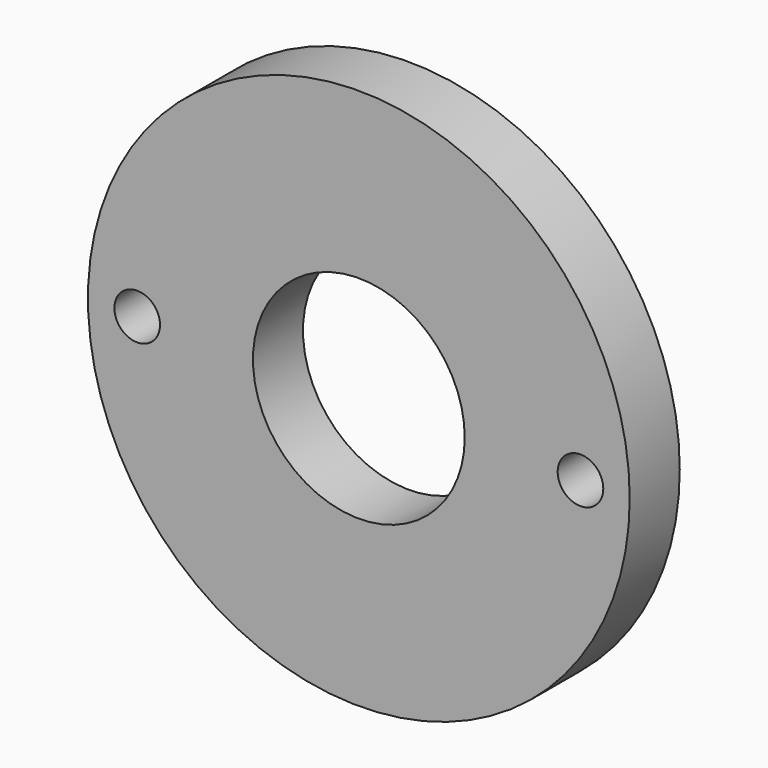
from build123d import *

# Parameters (mm, degrees)
F0_R     = 21.5
F0_R_2   = 4.6288
F1_DEPTH = 12.7


with BuildPart() as f1:
    # F0 (on Front) → F1 (new body)
    with BuildSketch(Plane.XZ):
        with BuildLine():
            ThreePointArc((-55, 0), (0, -55), (55, 0))
            ThreePointArc((55, 0), (0, 55), (-55, 0))
        make_face()
        with BuildLine():
            ThreePointArc((-40.3712, 0), (-45, -4.6288), (-49.6288, 0))
            ThreePointArc((-49.6288, 0), (-45, 4.6288), (-40.3712, 0))
        make_face(mode=Mode.SUBTRACT)
        Circle(F0_R, mode=Mode.SUBTRACT)
        with Locations((45, 0)):
            Circle(F0_R_2, mode=Mode.SUBTRACT)
    extrude(amount=F1_DEPTH)


solid = f1.part
